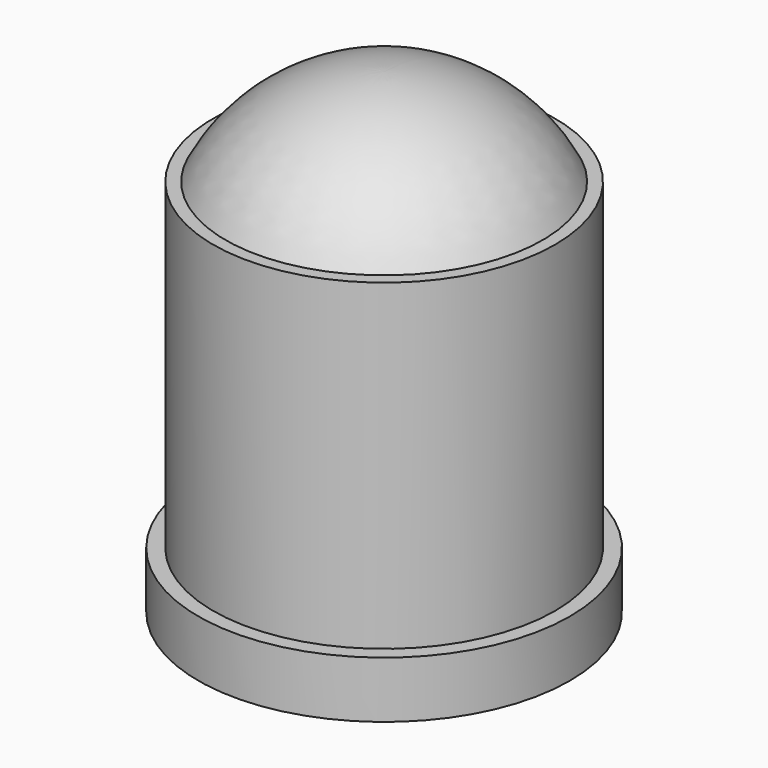
from build123d import *

# Parameters (mm, degrees)
SKETCH_R     = 2.5
PAD_DEPTH    = 0.762
SKETCH002_R  = 2.3
PAD001_DEPTH = 5.1


with BuildPart() as part:
    # Sketch → Pad (new body)
    with BuildSketch(Plane.XY):
        Circle(SKETCH_R)
    extrude(amount=PAD_DEPTH)

    # Sketch002 → Pad001 (join)
    with BuildSketch(Plane.XY):
        Circle(SKETCH002_R)
    extrude(amount=PAD001_DEPTH)

    # Sketch003 → Revolution (revolve)
    with BuildSketch(Plane.YZ):
        with BuildLine():
            Line((0, 5.1), (0, 6.4))
            ThreePointArc((2.133073, 5.1), (1.249, 6.04939), (0, 6.4))
            Line((0, 5.1), (2.133073, 5.1))
        make_face()
    revolve(axis=Axis((0, 0, 0), (0, 0, 1)))


solid = part.part
